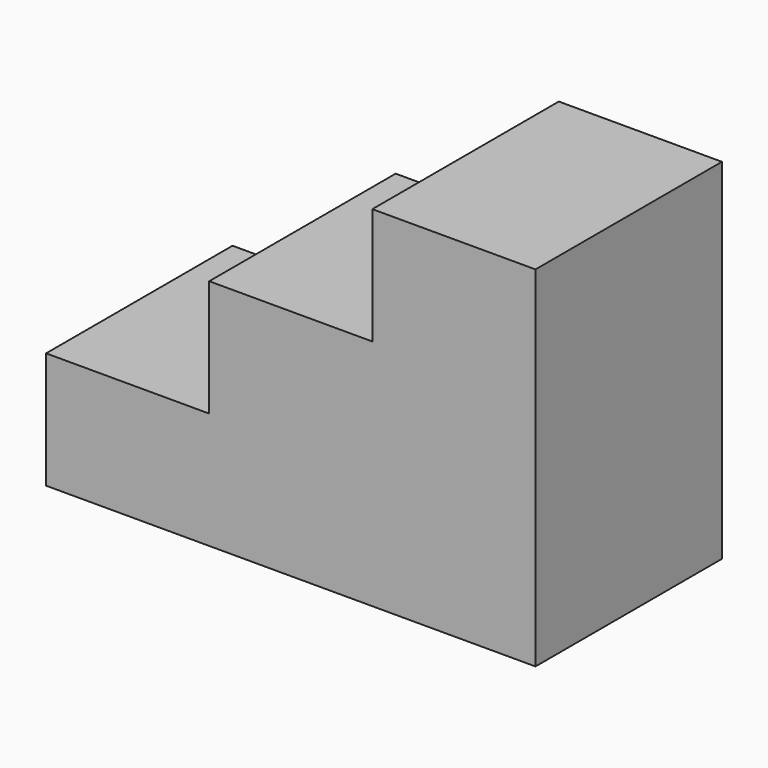
from build123d import *

# Parameters (mm, degrees)
F0_W     = 2667
F0_H     = 1905
F1_DEPTH = 1270
F3_DEPTH = 1270.001


with BuildPart() as f1:
    # F0 (on Front) → F1 (new body)
    with BuildSketch(Plane.XZ):
        with Locations((1257.311026, 936.868524)):
            Rectangle(F0_W, F0_H)
    extrude(amount=F1_DEPTH)

    # F2 (on face) → F3 (cut, through all)
    with BuildSketch(Plane.XZ.offset(1270)):
        Polygon((-76.188974, 1889.368524), (-76.188974, 619.368524), (812.811026, 619.368524), (812.811026, 1254.368524), (1701.811026, 1254.368524), (1701.811026, 1889.368524), align=None)
    extrude(amount=-F3_DEPTH, mode=Mode.SUBTRACT)


solid = f1.part
